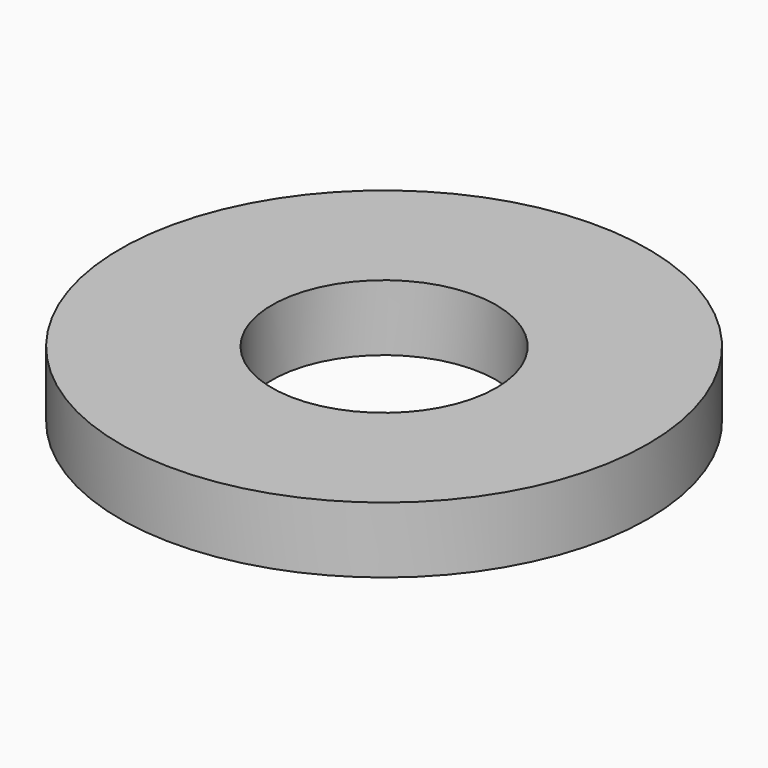
from build123d import *

# Parameters (mm, degrees)
CYLINDER009_R     = 1.7
CYLINDER009_DEPTH = 1
CYLINDER010_R     = 4
CYLINDER010_DEPTH = 1


with BuildPart() as cylinder_m3_cut:
    # Cylinder009 → Cylinder009 (new body)
    with BuildSketch(Plane.XY):
        Circle(CYLINDER009_R)
    extrude(amount=CYLINDER009_DEPTH)


with BuildPart() as cut011:
    # Cylinder010 → Cylinder010 (new body)
    with BuildSketch(Plane.XY):
        Circle(CYLINDER010_R)
    extrude(amount=CYLINDER010_DEPTH)

    # Cut011: cut Cylinder(m3_cut)
    add(cylinder_m3_cut.part, mode=Mode.SUBTRACT)


solid = cut011.part
